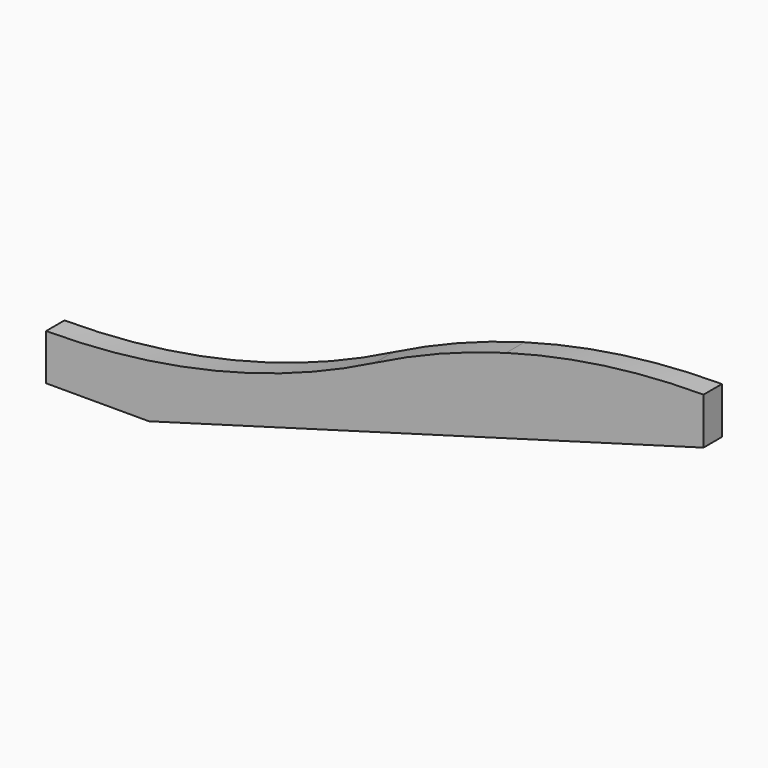
from build123d import *

# Parameters (mm, degrees)
F1_DEPTH = 44.45


with BuildPart() as f1:
    # F0 (on Front) → F1 (new body)
    with BuildSketch(Plane.XZ):
        with BuildLine():
            ThreePointArc((635, 241.3), (326.515987, 127.533386), (0, 88.9))
            Line((0, 88.9), (512.389155, 88.9))
            Line((512.389155, 88.9), (1270, 303.591931))
            Line((1270, 303.591931), (1270, 393.7))
            ThreePointArc((1270, 393.7), (1077.436847, 380.385224), (888.538772, 340.694316))
            ThreePointArc((888.538772, 340.694316), (759.345357, 297.180463), (635, 241.3))
        make_face()
        Polygon((0, 88.9), (0, 0), (198.676368, 0), (512.389155, 88.9), align=None)
    extrude(amount=-F1_DEPTH)


solid = f1.part
